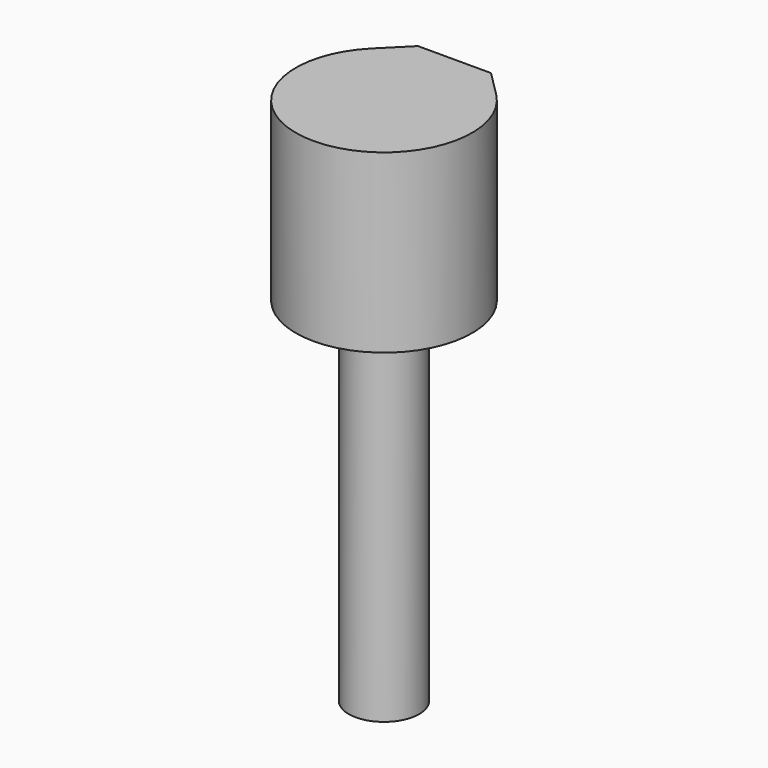
from build123d import *

# Parameters (mm, degrees)
PAD003_DEPTH = 10
PAD002_DEPTH = 20


with BuildPart() as printbolthead001:
    # Sketch003 → Pad003 (new body)
    with BuildSketch(Plane.XY):
        with BuildLine():
            ThreePointArc((-3.535526, 3.535542), (-1.8e-05, -5), (3.535551, 3.535517))
            Line((2.071068, 5), (3.535551, 3.535517))
            Line((-2.071068, 5), (2.071068, 5))
            Line((-3.535526, 3.535542), (-2.071068, 5))
        make_face()
    extrude(amount=PAD003_DEPTH)


with BuildPart() as printboltslot:
    # Sketch002 → Pad002 (new body)
    with BuildSketch(Plane.XY):
        with BuildLine():
            ThreePointArc((-1.414208, 1.414219), (1e-06, -2), (1.414206, 1.414221))
            Line((0.828427, 2), (1.414206, 1.414221))
            Line((-0.828427, 2), (0.828427, 2))
            Line((-1.414208, 1.414219), (-0.828427, 2))
        make_face()
    extrude(amount=-PAD002_DEPTH)

    # Fusion001: union PrintBoltHead001
    add(printbolthead001.part)


solid = printboltslot.part
